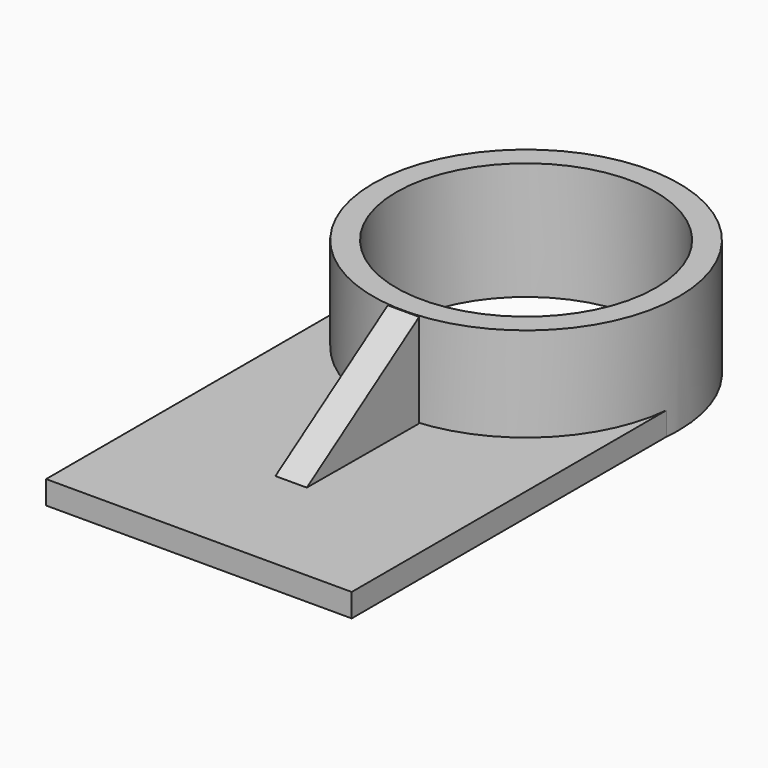
from build123d import *

# Parameters (mm, degrees)
F0_R     = 39
F1_DEPTH = 30
F2_W     = 77.9210589826
F2_H     = 5.9407898225
F3_DEPTH = 74.5
F4_R     = 33.0685483586
F5_DEPTH = 30
F7_DEPTH = 4
F8_W     = 77.9210589826
F8_H     = 5.9407898225
F9_DEPTH = 29.6


with BuildPart() as f1:
    # F0 (on Top) → F1 (new body)
    with BuildSketch(Plane.XY):
        Circle(F0_R)
        Circle(F0_R)
    extrude(amount=F1_DEPTH)

    # F2 (on Front) → F3 (join)
    with BuildSketch(Plane.XZ):
        with Locations((-0.1381579787, 2.9703949112)):
            Rectangle(F2_W, F2_H)
    extrude(amount=F3_DEPTH)

    # F4 (on face) → F5 (cut)
    with BuildSketch(Plane.XY.offset(30)):
        Circle(F4_R)
    extrude(amount=-F5_DEPTH, mode=Mode.SUBTRACT)

    # F8 (on face) → F9 (join)
    with BuildSketch(Plane.XZ.offset(74.5)):
        with Locations((-0.1381579787, 2.9703949112)):
            Rectangle(F8_W, F8_H)
    extrude(amount=F9_DEPTH)


with BuildPart() as f7:
    # F6 (on Right) → F7 (new body, symmetric)
    with BuildSketch(Plane.YZ):
        Polygon((-39.0886366367, 29.9249999225), (-74.8840942979, 6.1568184756), (-39.0886366367, 5.9980223887), align=None)
    extrude(amount=F7_DEPTH, both=True)


solid = Compound([f1.part, f7.part])
